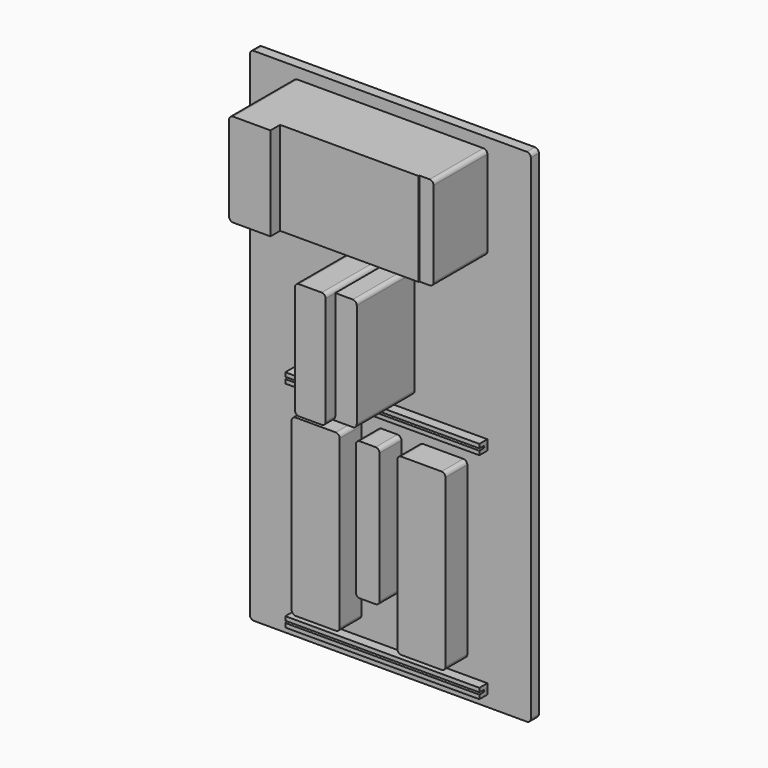
from build123d import *

# Parameters (mm, degrees)
F0_W      = 18.034
F0_H      = 118.11
F1_DEPTH  = 85.09
F0_W_2    = 35.052
F0_W_3    = 70.104
F2_DEPTH  = 86.36
F0_W_4    = 52.324
F3_DEPTH  = 101.6
F0_W_5    = 27.178
F0_H_2    = 142.24
F4_DEPTH  = 91.44
F5_DEPTH  = 106.68
F0_W_6    = 60.96
F0_H_3    = 220.98
F0_W_7    = 29.972
F0_H_4    = 175.006
F6_DEPTH  = 34.544
F7_W      = 245.618
F7_H      = 5.08
F8_DEPTH  = 12.7
F7_H_2    = 2.54
F9_DEPTH  = 5.08
F10_W     = 355.6
F10_H     = 635
F11_DEPTH = 12.7
F12_R     = 5.08
F13_R     = 5.08
F13_2_R   = 5.08
F14_R     = 5.08
F15_R     = 5.08


with BuildPart() as f1:
    # F0 (on Front) → F1 (new body)
    with BuildSketch(Plane.XZ):
        with Locations((236.601, 59.055)):
            Rectangle(F0_W, F0_H)
    extrude(amount=F1_DEPTH)

    # F0 (on Front) → F2 (join)
    with BuildSketch(Plane.XZ):
        with Locations((210.058, 59.055)):
            Rectangle(F0_W_2, F0_H)
        with Locations((175.006, 59.055)):
            Rectangle(F0_W_2, F0_H)
        with Locations((122.428, 59.055)):
            Rectangle(F0_W_3, F0_H)
        with Locations((69.85, 59.055)):
            Rectangle(F0_W_2, F0_H)
    extrude(amount=F2_DEPTH)

    # F0 (on Front) → F3 (join)
    with BuildSketch(Plane.XZ):
        with Locations((26.162, 59.055)):
            Rectangle(F0_W_4, F0_H)
    extrude(amount=F3_DEPTH)

    # F14
    f14_edges = [f1.edges().sort_by_distance(p)[0] for p in [
        (0, -50.8, 118.11),
        (0, -50.8, 0),
        (245.618, -42.545, 118.11),
        (245.618, -42.545, 0),
    ]]
    fillet(f14_edges, radius=F14_R)


with BuildPart() as f4:
    # F0 (on Front) → F4 (new body)
    with BuildSketch(Plane.XZ):
        with Locations((139.827, -114.3)):
            Rectangle(F0_W_5, F0_H_2)
    extrude(amount=F4_DEPTH)

    # F0 (on Front) → F5 (join)
    with BuildSketch(Plane.XZ):
        Polygon((126.238, -38.1), (87.376, -38.1), (87.376, -185.42), (126.238, -185.42), (126.238, -43.18), align=None)
    extrude(amount=F5_DEPTH)

    # F13#2
    f13_2_edges = [f4.edges().sort_by_distance(p)[0] for p in [
        (87.376, -53.34, -185.42),
        (87.376, -53.34, -38.1),
        (153.416, -45.72, -43.18),
        (126.238, -53.34, -38.1),
        (153.416, -45.72, -185.42),
        (126.238, -99.06, -185.42),
    ]]
    fillet(f13_2_edges, radius=F13_2_R)


with BuildPart() as f6:
    # F0 (on Front) → F6 (new body)
    with BuildSketch(Plane.XZ):
        with Locations((55.88, -346.71)):
            Rectangle(F0_W_6, F0_H_3)
        with Locations((189.738, -346.71)):
            Rectangle(F0_W_6, F0_H_3)
        with Locations((121.793, -323.723)):
            Rectangle(F0_W_7, F0_H_4)
    extrude(amount=F6_DEPTH)

    # F12
    f12_edges = [f6.edges().sort_by_distance(p)[0] for p in [
        (86.36, -17.272, -236.22),
        (136.779, -17.272, -236.22),
        (220.218, -17.272, -236.22),
        (159.258, -17.272, -236.22),
        (25.4, -17.272, -236.22),
        (25.4, -17.272, -457.2),
        (106.807, -17.272, -411.226),
        (159.258, -17.272, -457.2),
        (86.36, -17.272, -457.2),
        (136.779, -17.272, -411.226),
        (220.218, -17.272, -457.2),
    ]]
    fillet(f12_edges, radius=F12_R)

    # F13
    f13_edges = [f6.edges().sort_by_distance(p)[0] for p in [
        (106.807, -17.272, -236.22),
    ]]
    fillet(f13_edges, radius=F13_R)


with BuildPart() as f8:
    # F7 (on Front) → F8 (new body)
    with BuildSketch(Plane.XZ):
        with Locations((122.809, -207.01)):
            Rectangle(F7_W, F7_H)
        with Locations((122.809, -214.63)):
            Rectangle(F7_W, F7_H)
        with Locations((122.809, -486.41)):
            Rectangle(F7_W, F7_H)
        with Locations((122.809, -478.79)):
            Rectangle(F7_W, F7_H)
    extrude(amount=F8_DEPTH)


with BuildPart() as f9:
    # F7 (on Front) → F9 (new body)
    with BuildSketch(Plane.XZ):
        with Locations((122.809, -210.82)):
            Rectangle(F7_W, F7_H_2)
        with Locations((122.809, -482.6)):
            Rectangle(F7_W, F7_H_2)
    extrude(amount=F9_DEPTH)


with BuildPart() as f11:
    # F10 (on Front) → F11 (new body)
    with BuildSketch(Plane.XZ):
        with Locations((122.809, -185.42)):
            Rectangle(F10_W, F10_H)
    extrude(amount=-F11_DEPTH)

    # F15
    f15_edges = [f11.edges().sort_by_distance(p)[0] for p in [
        (-54.991, 6.35, 132.08),
        (300.609, 6.35, 132.08),
        (300.609, 6.35, -502.92),
        (-54.991, 6.35, -502.92),
    ]]
    fillet(f15_edges, radius=F15_R)


solid = Compound([f1.part, f4.part, f6.part, f8.part, f9.part, f11.part])
